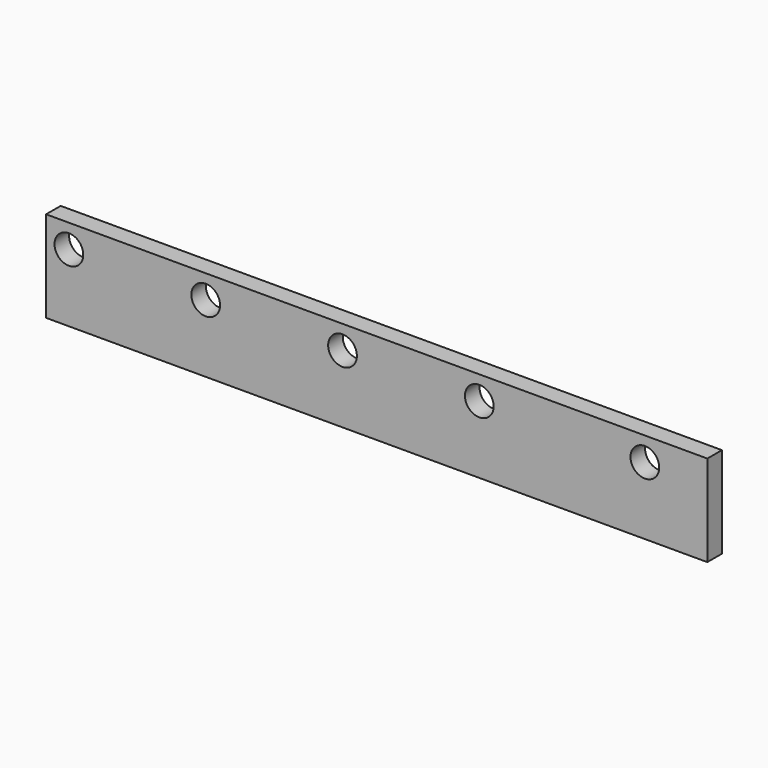
from build123d import *

# Parameters (mm, degrees)
F0_W     = 580
F0_H     = 80
F0_R     = 12.6
F1_DEPTH = 16


with BuildPart() as f1:
    # F0 (on Front) → F1 (new body)
    with BuildSketch(Plane.XZ):
        Rectangle(F0_W, F0_H)
        with Locations((-270, 19.319137)):
            Circle(F0_R, mode=Mode.SUBTRACT)
        with Locations((-150, 19.319137)):
            Circle(F0_R, mode=Mode.SUBTRACT)
        with Locations((-30, 19.319137)):
            Circle(F0_R, mode=Mode.SUBTRACT)
        with Locations((90, 19.319137)):
            Circle(F0_R, mode=Mode.SUBTRACT)
        with Locations((235.2, 19.319137)):
            Circle(F0_R, mode=Mode.SUBTRACT)
    extrude(amount=F1_DEPTH)


solid = f1.part
